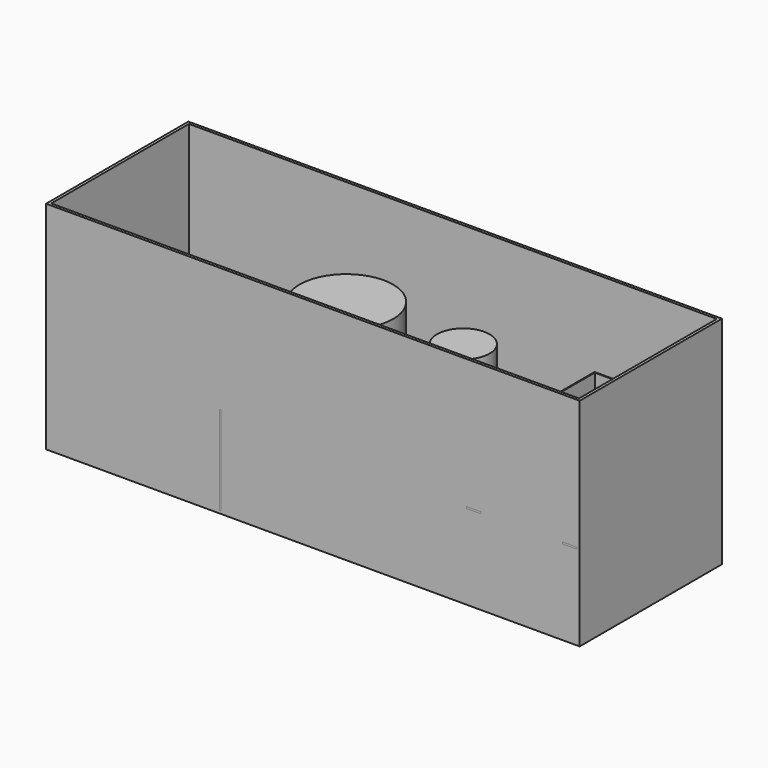
from build123d import *

# Parameters (mm, degrees)
F0_W          = 1500
F0_H          = 500
F0_W_2        = 1484
F0_H_2        = 484
F1_DEPTH      = 8
F2_DEPTH      = 600
F4_W          = 5
F4_H          = 250
F5_DEPTH      = 492
F4_W_2        = 40
F4_H_2        = 5
F7_DEPTH      = 200
F7_DEPTH_BACK = 200
F8_T          = -2.5
F9_R          = 131.4761602714
F10_DEPTH     = 500
F9_R_2        = 73.8496876532
F11_W         = 193.4688985348
F11_H         = 106.2804311514
F12_DEPTH     = 100


with BuildPart() as f1:
    # F0 (on Top) → F1 (new body)
    with BuildSketch(Plane.XY):
        Rectangle(F0_W, F0_H)
        Rectangle(F0_W_2, F0_H_2, mode=Mode.SUBTRACT)
        Rectangle(F0_W_2, F0_H_2)
    extrude(amount=-F1_DEPTH)


with BuildPart() as f2:
    # F0 (on Top) → F2 (new body)
    with BuildSketch(Plane.XY):
        Rectangle(F0_W, F0_H)
        Rectangle(F0_W_2, F0_H_2, mode=Mode.SUBTRACT)
    extrude(amount=F2_DEPTH)


with BuildPart() as f1_1:
    add(f1.part)

    # F3: union F2
    add(f2.part)


with BuildPart() as f5:
    # F4 (on face) → F5 (new body, through all)
    with BuildSketch(Plane.XZ.offset(250)):
        with Locations((-260.5, 125)):
            Rectangle(F4_W, F4_H)
    extrude(amount=-F5_DEPTH)


with BuildPart() as f5b:
    # F4 (on face) → F5, piece 2 (new body, through all)
    with BuildSketch(Plane.XZ.offset(250)):
        with Locations((722, 232.5)):
            Rectangle(F4_W_2, F4_H_2)
    extrude(amount=-F5_DEPTH)


with BuildPart() as f5c:
    # F4 (on face) → F5, piece 3 (new body, through all)
    with BuildSketch(Plane.XZ.offset(250)):
        with Locations((452, 232.5)):
            Rectangle(F4_W_2, F4_H_2)
    extrude(amount=-F5_DEPTH)


with BuildPart() as f7:
    # F6 (on Front) → F7 (new body, two sides)
    with BuildSketch(Plane.XZ) as f7_sk:
        Polygon((432, 235), (472, 235), (702, 235), (742, 235), (742, 385), (432, 385), align=None)
    extrude(amount=-F7_DEPTH)
    extrude(f7_sk.sketch, amount=F7_DEPTH_BACK)

    # F8
    f8_openings = [f7.faces().sort_by_distance(p)[0] for p in [
        (587, 0, 385),
    ]]
    offset(amount=F8_T, openings=f8_openings)


with BuildPart() as f10:
    # F9 (on face) → F10 (new body)
    with BuildSketch(Plane.XY):
        with Locations((-64.0354678035, -52.4545870721)):
            Circle(F9_R)
    extrude(amount=F10_DEPTH)


with BuildPart() as f10b:
    # F9 (on face) → F10, piece 2 (new body)
    with BuildSketch(Plane.XY):
        with Locations((261.5916728973, -48.3672171831)):
            Circle(F9_R_2)
    extrude(amount=F10_DEPTH)


with BuildPart() as f12:
    # F11 (on face) → F12 (new body)
    with BuildSketch(Plane.XY):
        with Locations((-576.319232583, 116.8514415622)):
            Rectangle(F11_W, F11_H)
    extrude(amount=F12_DEPTH)


solid = Compound([f1_1.part, f5.part, f5b.part, f5c.part, f7.part, f10.part, f10b.part, f12.part])
